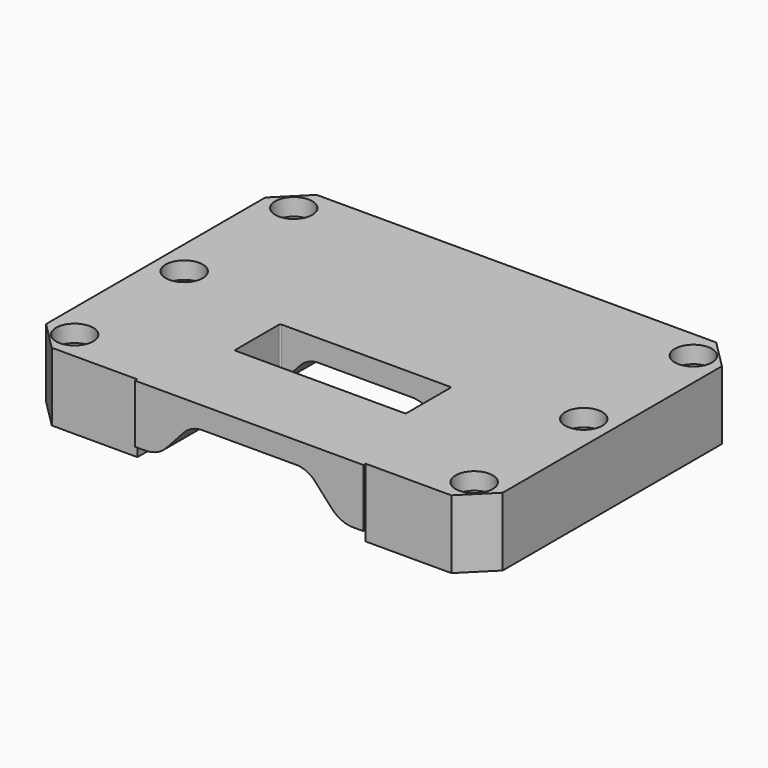
from build123d import *

# Parameters (mm, degrees)
F0_W           = 80
F0_H           = 58
F1_DEPTH       = 6
F3_DEPTH       = 60
F4_SIZE        = 5
F6_D           = 3.3
F6_CBORE_D     = 6.5
F6_CBORE_DEPTH = 3
F8_DEPTH       = 0.5
F10_DEPTH      = 6
F11_R          = 4.8
F12_DEPTH      = 5
F14_DEPTH      = 1
F16_DEPTH      = 12.001


with BuildPart() as f1:
    # F0 (on Top) → F1 (new body, symmetric)
    with BuildSketch(Plane.XY):
        Rectangle(F0_W, F0_H)
    extrude(amount=F1_DEPTH, both=True)

    # F2 (on Front) → F3 (cut, symmetric)
    with BuildSketch(Plane.XZ):
        with BuildLine():
            ThreePointArc((-14.50485, -2.5683595528), (-16.1807477573, -3.7753797852), (-18.2015, -4.2021016015))
            Line((-18.2015, -4.2021016015), (-20, -4.2021016015))
            Line((-20, -4.2021016015), (-20, -6))
            Line((-20, -6), (20, -6))
            Line((20, -6), (20, -4.2021016015))
            Line((20, -4.2021016015), (18.2015, -4.2021016015))
            ThreePointArc((18.2015, -4.2021016015), (16.1807477573, -3.7753797852), (14.50485, -2.5683595528))
            Line((14.50485, -2.5683595528), (11.656, 0.56))
            ThreePointArc((11.656, 0.56), (9.9890562195, 1.8254301669), (7.93, 2.2))
            Line((7.93, 2.2), (-7.93, 2.2))
            ThreePointArc((-7.93, 2.2), (-9.9890562195, 1.8254301669), (-11.656, 0.56))
            Line((-11.656, 0.56), (-14.50485, -2.5683595528))
        make_face()
    extrude(amount=F3_DEPTH, both=True, mode=Mode.SUBTRACT)

    # F4
    f4_edges = [f1.edges().sort_by_distance(p)[0] for p in [
        (-40, 29, 0),
        (-40, -29, 0),
        (40, -29, 0),
        (40, 29, 0),
    ]]
    chamfer(f4_edges, length=F4_SIZE)

    # F6 (through all)
    with Locations(Plane.XY.offset(6)):
        with Locations((-35, 24), (35, 24), (35, 0), (35, -24), (-35, -24), (-35, 0)):
            CounterBoreHole(F6_D / 2, F6_CBORE_D / 2, F6_CBORE_DEPTH)

    # F7 (on face) → F8 (join)
    with BuildSketch(Plane.XZ.offset(29)):
        with BuildLine():
            Line((-20, 6), (-20, -4.2021016015))
            Line((-20, -4.2021016015), (-18.2015, -4.2021016015))
            ThreePointArc((-18.2015, -4.2021016015), (-16.1807477573, -3.7753797852), (-14.50485, -2.5683595528))
            Line((-14.50485, -2.5683595528), (-11.656, 0.56))
            ThreePointArc((-11.656, 0.56), (-9.9890562195, 1.8254301669), (-7.93, 2.2))
            Line((-7.93, 2.2), (7.93, 2.2))
            ThreePointArc((7.93, 2.2), (9.9890562195, 1.8254301669), (11.656, 0.56))
            Line((11.656, 0.56), (14.50485, -2.5683595528))
            ThreePointArc((14.50485, -2.5683595528), (16.1807477573, -3.7753797852), (18.2015, -4.2021016015))
            Line((18.2015, -4.2021016015), (20, -4.2021016015))
            Line((20, -4.2021016015), (20, 6))
            Line((20, 6), (-20, 6))
        make_face()
    extrude(amount=F8_DEPTH)

    # F9 (on face) → F10 (join)
    with BuildSketch(Plane(origin=(0, 29, 0), x_dir=(-1, 0, 0), z_dir=(0, 1, 0))):
        with BuildLine():
            Line((-20, -4.2021016015), (-20, -6))
            Line((-20, -6), (-3.3, -6))
            ThreePointArc((-3.3, -6), (0, -2.7), (3.3, -6))
            Line((3.3, -6), (20, -6))
            Line((20, -6), (20, -4.2021016015))
            Line((20, -4.2021016015), (18.2015, -4.2021016015))
            ThreePointArc((18.2015, -4.2021016015), (16.1807477573, -3.7753797852), (14.50485, -2.5683595528))
            Line((14.50485, -2.5683595528), (11.656, 0.56))
            ThreePointArc((11.656, 0.56), (9.9890562195, 1.8254301669), (7.93, 2.2))
            Line((7.93, 2.2), (-7.93, 2.2))
            ThreePointArc((-7.93, 2.2), (-9.9890562195, 1.8254301669), (-11.656, 0.56))
            Line((-11.656, 0.56), (-14.50485, -2.5683595528))
            ThreePointArc((-14.50485, -2.5683595528), (-16.1807477573, -3.7753797852), (-18.2015, -4.2021016015))
            Line((-18.2015, -4.2021016015), (-20, -4.2021016015))
        make_face()
    extrude(amount=-F10_DEPTH)

    # F11 (on face) → F12 (cut)
    with BuildSketch(Plane.XZ.offset(-23)):
        with Locations((0, -6)):
            Circle(F11_R)
    extrude(amount=-F12_DEPTH, mode=Mode.SUBTRACT)

    # F13 (on face) → F14 (join)
    with BuildSketch(Plane(origin=(0, 29, 0), x_dir=(-1, 0, 0), z_dir=(0, 1, 0))):
        with BuildLine():
            ThreePointArc((-3.3, -6), (0, -2.7), (3.3, -6))
            Line((3.3, -6), (6.25, -6))
            ThreePointArc((6.25, -6), (0, 0.25), (-6.25, -6))
            Line((-6.25, -6), (-3.3, -6))
        make_face()
    extrude(amount=F14_DEPTH)

    # F15 (on face) → F16 (cut, through all)
    with BuildSketch(Plane.XY.offset(6)):
        with BuildLine():
            Line((14.75, -4), (-14.75, -4))
            ThreePointArc((-14.75, -4), (-14.9267766953, -4.0732233047), (-15, -4.25))
            Line((-15, -4.25), (-15, -13.75))
            ThreePointArc((-15, -13.75), (-14.9267766953, -13.9267766953), (-14.75, -14))
            Line((-14.75, -14), (14.75, -14))
            ThreePointArc((14.75, -14), (14.9267766953, -13.9267766953), (15, -13.75))
            Line((15, -13.75), (15, -4.25))
            ThreePointArc((15, -4.25), (14.9267766953, -4.0732233047), (14.75, -4))
        make_face()
    extrude(amount=-F16_DEPTH, mode=Mode.SUBTRACT)


solid = f1.part
